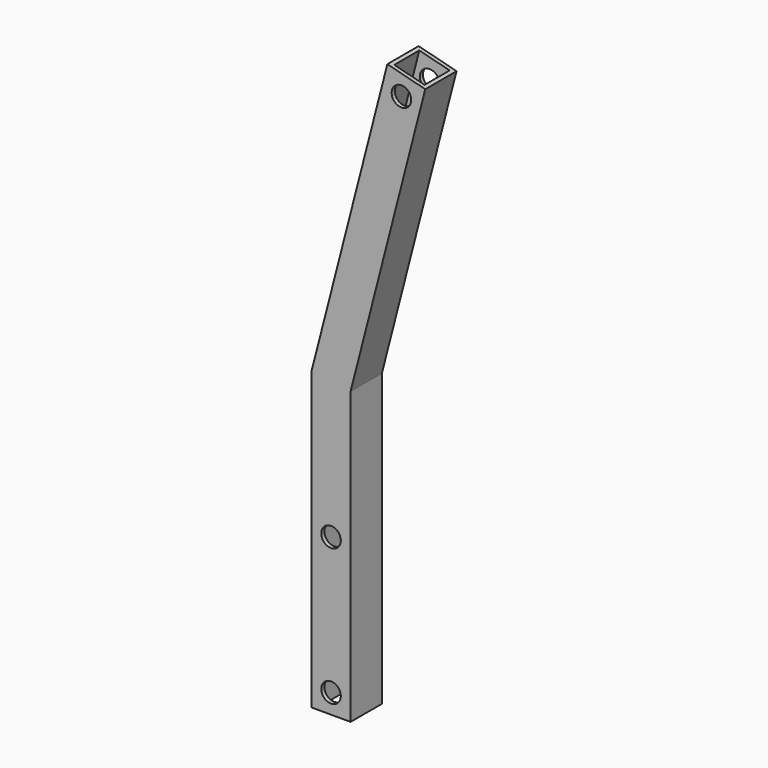
from build123d import *

# Parameters (mm, degrees)
PAD_DEPTH    = 10
THICKNESS_T  = -1
SKETCH001_R  = 2.5
POCKET_DEPTH = 10.001


with BuildPart() as part:
    # Sketch → Pad (new body)
    with BuildSketch(Plane.XZ):
        Polygon((-5, -5), (-5, 70.632568), (14.402741, 146.08767), (24.08767, 143.597259), (5, 69.367432), (5, -5), align=None)
    extrude(amount=PAD_DEPTH)

    # Thickness
    thickness_openings = [part.faces().sort_by_distance(p)[0] for p in [
        (19.245205, -5, 144.842465),
        (0, -5, -5),
    ]]
    offset(amount=THICKNESS_T, openings=thickness_openings)

    # Sketch001 (on Face6 of Thickness) → Pocket (cut, through all)
    with BuildSketch(Plane.XZ.offset(10)):
        with Locations((18, 140)):
            Circle(SKETCH001_R)
        Circle(SKETCH001_R)
        with Locations((0, 35)):
            Circle(SKETCH001_R)
    extrude(amount=-POCKET_DEPTH, mode=Mode.SUBTRACT)


solid = part.part
